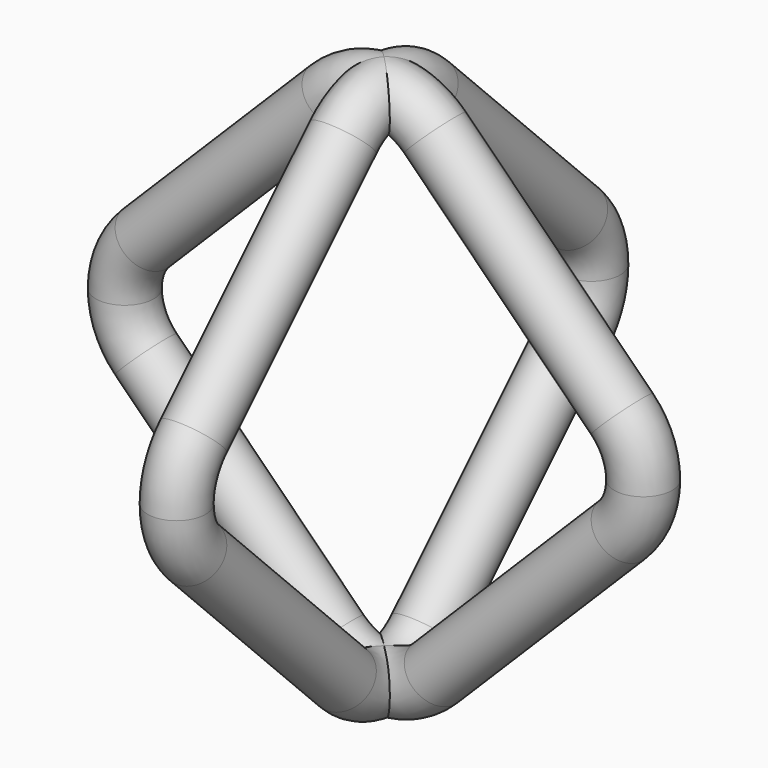
from build123d import *

# Parameters (mm, degrees)
F1_R     = 2
F5_COUNT = 2
F5_ANGLE = 90


with BuildPart() as f2:
    # F2: sweep along a path in F0
    with BuildLine(Plane.XZ) as f2_path:
        ThreePointArc((17.9289321881, 0), (17.5483298507, 1.9134171618), (16.4644660941, 3.5355339059))
        Line((16.4644660941, 3.5355339059), (3.5355339059, 16.4644660941))
        ThreePointArc((3.5355339059, 16.4644660941), (0, 17.9289321881), (-3.5355339059, 16.4644660941))
        Line((-3.5355339059, 16.4644660941), (-16.4644660941, 3.5355339059))
        ThreePointArc((-16.4644660941, 3.5355339059), (-17.5483298507, 1.9134171618), (-17.9289321881, 0))
    # F1 (on Top) → F2 (sweep)
    with BuildSketch(Plane.XY):
        with Locations((-17.9289321881, 0)):
            Circle(F1_R)
    sweep(path=f2_path.line)

    # F3: F2 across face


with BuildPart() as f2_1:
    add(f2.part)
    add(f2.part.mirror(Plane(origin=(-17.9289321881, 0, 0), x_dir=(1, 0, 0), z_dir=(0, 0, -1))))

    # F5: F2 ×2 about axis
    f5_axis = Axis((0, 0, 11.396439746), (0, 0, 1))


with BuildPart() as f2_2:
    add(f2_1.part)
    for i in range(1, F5_COUNT):
        add(f2_1.part.rotate(f5_axis, i * F5_ANGLE / (F5_COUNT - 1)))


solid = f2_2.part
